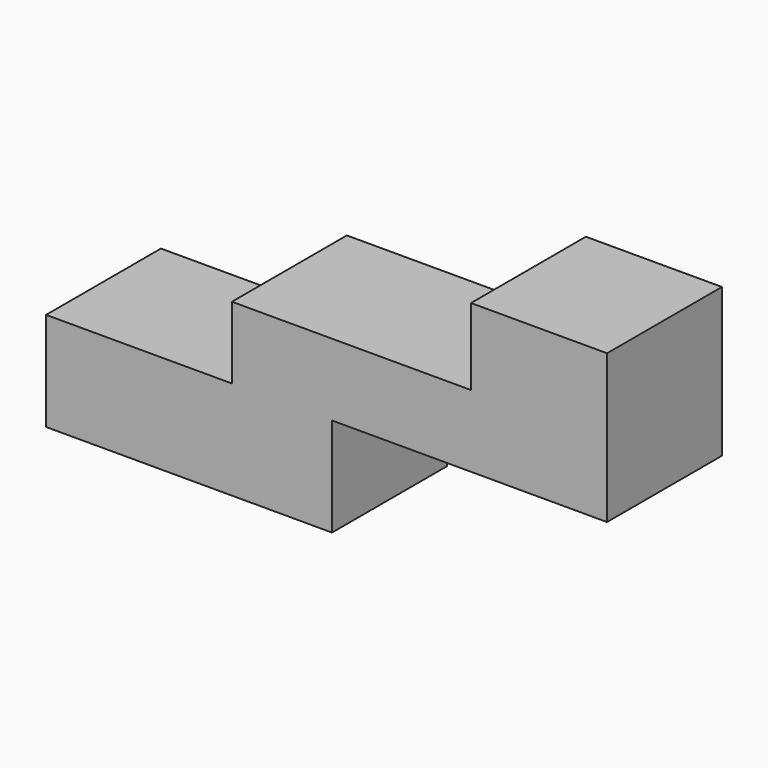
from build123d import *

# Parameters (mm, degrees)
F1_DEPTH = 37.338


with BuildPart() as f1:
    # F0 (on Front) → F1 (new body)
    with BuildSketch(Plane.XZ):
        Polygon((36.141854, 44.383232), (71.51109, 44.383232), (71.51109, 64.299881), (53.826472, 64.299881), (36.141854, 64.299881), align=None)
        Polygon((-74.336521, 0), (0, 0), (0, 25.665386), (-26.011834, 25.665386), (-74.336521, 25.665386), align=None)
        Polygon((-26.011834, 25.665386), (0, 25.665386), (71.51109, 25.665386), (71.51109, 44.383232), (36.141854, 44.383232), (-26.011834, 44.383232), align=None)
    extrude(amount=F1_DEPTH)


solid = f1.part
